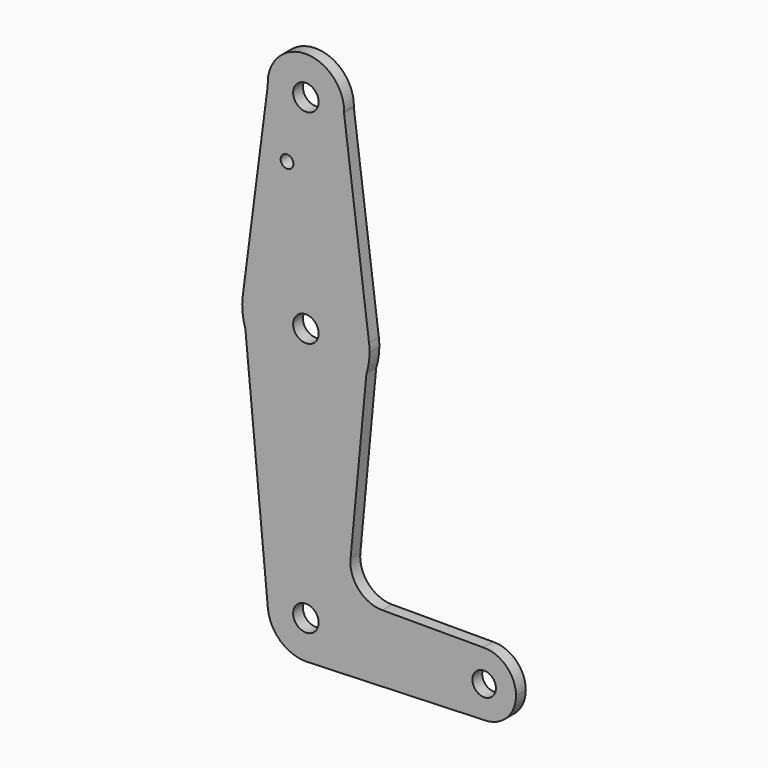
from build123d import *

# Parameters (mm, degrees)
F0_R     = 3.175
F0_R_2   = 1.5875
F0_R_3   = 2.9306554035
F1_DEPTH = 3.048


with BuildPart() as f1:
    # F0 (on Front) → F1 (new body)
    with BuildSketch(Plane.XZ):
        with BuildLine():
            ThreePointArc((-37.3289830439, 70.1690701609), (-37.3236935297, 70.3522765544), (-37.3219301406, 70.535550808))
            ThreePointArc((-37.3219301406, 70.535550808), (-47.1164080389, 80.0567380586), (-56.3566821957, 69.9968107493))
            ThreePointArc((-56.3566821957, 69.9968107493), (-46.7607030225, 61.0109411108), (-37.3289830439, 70.1690701609))
        make_face()
        with Locations((-46.8469301406, 70.535550808)):
            Circle(F0_R, mode=Mode.SUBTRACT)
        with BuildLine():
            ThreePointArc((-37.3289830439, 70.1690701609), (-46.7607030225, 61.0109411108), (-56.3566821957, 69.9968107493))
            Line((-56.3566821957, 69.9968107493), (-62.5909255123, 21.7707988853))
            ThreePointArc((-62.5909255123, 21.7707988853), (-46.8420162715, 35.6105500475), (-31.1016778246, 21.7610518585))
            Line((-31.1016778246, 21.7610518585), (-37.3289830439, 70.1690701609))
        make_face()
        with Locations((-51.5429489315, 54.8951402307)):
            Circle(F0_R_2, mode=Mode.SUBTRACT)
        with BuildLine():
            Line((-61.9333994829, 14.7944914291), (-62.5909255123, 21.7707988853))
            ThreePointArc((-62.5909255123, 21.7707988853), (-62.6518852196, 18.245913285), (-61.9333994829, 14.7944914291))
        make_face()
        with BuildLine():
            ThreePointArc((-31.1016778246, 21.7610518585), (-46.8420162715, 35.6105500475), (-62.5909255123, 21.7707988853))
            Line((-62.5909255123, 21.7707988853), (-61.9333994829, 14.7944914291))
            ThreePointArc((-61.9333994829, 14.7944914291), (-46.8425316878, 3.8605514173), (-31.7577250969, 14.8028521401))
            Line((-31.7577250969, 14.8028521401), (-31.1016778246, 21.7610518585))
        make_face()
        with Locations((-46.8469301406, 19.735550808)):
            Circle(F0_R, mode=Mode.SUBTRACT)
        with BuildLine():
            ThreePointArc((-30.9719301406, 19.735550808), (-31.0044002682, 20.7503770206), (-31.1016778246, 21.7610518585))
            Line((-31.1016778246, 21.7610518585), (-31.7577250969, 14.8028521401))
            ThreePointArc((-31.7577250969, 14.8028521401), (-31.1696096574, 17.2381026172), (-30.9719301406, 19.735550808))
        make_face()
        with BuildLine():
            ThreePointArc((-31.7577250969, 14.8028521401), (-46.8425316878, 3.8605514173), (-61.9333994829, 14.7944914291))
            Line((-61.9333994829, 14.7944914291), (-56.329903188, -44.6582317058))
            ThreePointArc((-56.329903188, -44.6582317058), (-47.2943151668, -34.2499617314), (-37.3219301406, -43.764449192))
            ThreePointArc((-37.3219301406, -43.764449192), (-39.8940156813, -50.2746416256), (-46.2211648958, -53.2688714711))
            Line((-46.2211648958, -53.2688714711), (-2.1142194696, -51.6969129282))
            ThreePointArc((-2.1142194696, -51.6969129282), (-10.3297713019, -44.0363634415), (-2.6580474649, -35.8312453))
            Line((-2.6580474649, -35.8312453), (-27.7966775542, -35.8312453))
            ThreePointArc((-27.7966775542, -35.8312453), (-33.6762462264, -33.2323397479), (-35.7117748327, -27.1347778473))
            Line((-35.7117748327, -27.1347778473), (-31.7577250969, 14.8028521401))
        make_face()
        with BuildLine():
            ThreePointArc((-37.3219301406, -43.764449192), (-47.2943151668, -34.2499617314), (-56.329903188, -44.6582317058))
            ThreePointArc((-56.329903188, -44.6582317058), (-53.2389274205, -50.8261767267), (-46.794497524, -53.2893048771))
            Line((-46.794497524, -53.2893048771), (-46.2211648958, -53.2688714711))
            ThreePointArc((-46.2211648958, -53.2688714711), (-39.8940156813, -50.2746416256), (-37.3219301406, -43.764449192))
        make_face()
        with Locations((-46.8469301406, -43.764449192)):
            Circle(F0_R, mode=Mode.SUBTRACT)
        with BuildLine():
            Line((-46.2211648958, -53.2688714711), (-46.794497524, -53.2893048771))
            ThreePointArc((-46.794497524, -53.2893048771), (-46.5076773354, -53.2834056755), (-46.2211648958, -53.2688714711))
        make_face()
        with BuildLine():
            ThreePointArc((5.5405698594, -43.764449192), (3.1226390223, -38.0602172099), (-2.6580474649, -35.8312453))
            ThreePointArc((-2.6580474649, -35.8312453), (-10.3297713019, -44.0363634415), (-2.1142194696, -51.6969129282))
            ThreePointArc((-2.1142194696, -51.6969129282), (3.3148087453, -49.2762497281), (5.5405698594, -43.764449192))
        make_face()
        with Locations((-2.3969301406, -43.764449192)):
            Circle(F0_R_3, mode=Mode.SUBTRACT)
    extrude(amount=F1_DEPTH)


solid = f1.part
